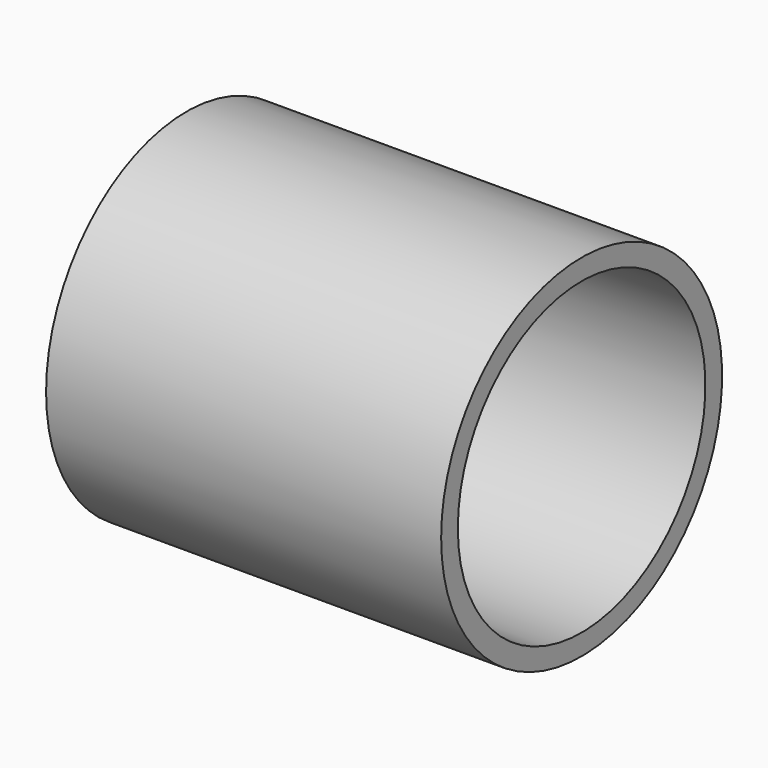
from build123d import *

# Parameters (mm, degrees)
F0_W          = 180
F0_H          = 9.5
F1_ANGLE_BACK = 90
F1_ANGLE      = 180


with BuildPart() as f1:
    # F0 (on Front) → F1 (revolve)
    with BuildSketch(Plane.XZ, mode=Mode.PRIVATE) as f1_sk:
        with Locations((0, 75.25)):
            Rectangle(F0_W, F0_H)
        with Locations((0, -75.25)):
            Rectangle(F0_W, F0_H)
    revolve(f1_sk.sketch.rotate(Axis((100, 0, 0), (1, 0, 0)), -F1_ANGLE_BACK), axis=Axis((100, 0, 0), (1, 0, 0)), revolution_arc=F1_ANGLE)


solid = f1.part
